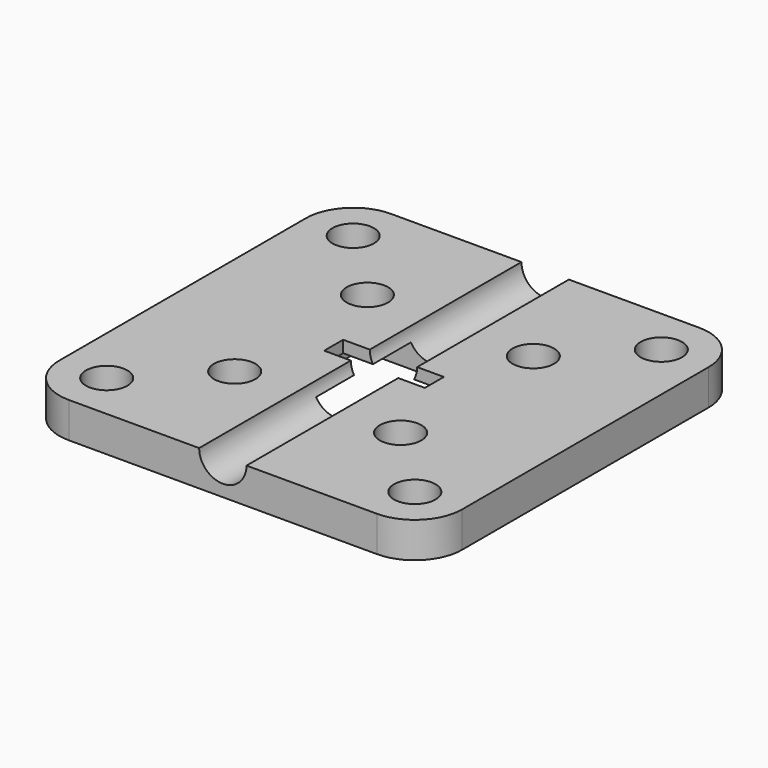
from build123d import *

# Parameters (mm, degrees)
F0_R     = 1.75
F0_W     = 12
F0_H     = 10
F1_DEPTH = 2
F2_R     = 1.75
F3_DEPTH = 1
F4_R     = 2
F5_DEPTH = 34
F6_W     = 8.5
F6_H     = 2
F7_DEPTH = 5


with BuildPart() as f1:
    # F0 (on Top) → F1 (new body)
    with BuildSketch(Plane.XY):
        with BuildLine():
            ThreePointArc((-17, -13), (-15.828427, -15.828427), (-13, -17))
            Line((-13, -17), (13, -17))
            ThreePointArc((13, -17), (15.828427, -15.828427), (17, -13))
            Line((17, -13), (17, 13))
            ThreePointArc((17, 13), (15.828427, 15.828427), (13, 17))
            Line((13, 17), (-13, 17))
            ThreePointArc((-13, 17), (-15.828427, 15.828427), (-17, 13))
            Line((-17, 13), (-17, -13))
        make_face()
        with Locations((-13, -13)):
            Circle(F0_R, mode=Mode.SUBTRACT)
        with Locations((-7, -7)):
            Circle(F0_R, mode=Mode.SUBTRACT)
        with Locations((13, -13)):
            Circle(F0_R, mode=Mode.SUBTRACT)
        with Locations((7, -7)):
            Circle(F0_R, mode=Mode.SUBTRACT)
        with Locations((-7, 7)):
            Circle(F0_R, mode=Mode.SUBTRACT)
        with Locations((-13, 13)):
            Circle(F0_R, mode=Mode.SUBTRACT)
        Rectangle(F0_W, F0_H, mode=Mode.SUBTRACT)
        with Locations((7, 7)):
            Circle(F0_R, mode=Mode.SUBTRACT)
        with Locations((13, 13)):
            Circle(F0_R, mode=Mode.SUBTRACT)
    extrude(amount=F1_DEPTH)

    # F2 (on face) → F3 (join)
    with BuildSketch(Plane.XY.offset(2)):
        with BuildLine():
            ThreePointArc((-17, -13), (-15.828427, -15.828427), (-13, -17))
            Line((-13, -17), (13, -17))
            ThreePointArc((13, -17), (15.828427, -15.828427), (17, -13))
            Line((17, -13), (17, 13))
            ThreePointArc((17, 13), (15.828427, 15.828427), (13, 17))
            Line((13, 17), (-13, 17))
            ThreePointArc((-13, 17), (-15.828427, 15.828427), (-17, 13))
            Line((-17, 13), (-17, -13))
        make_face()
        with Locations((-13, -13)):
            Circle(F2_R, mode=Mode.SUBTRACT)
        with Locations((-7, -7)):
            Circle(F2_R, mode=Mode.SUBTRACT)
        with Locations((13, -13)):
            Circle(F2_R, mode=Mode.SUBTRACT)
        with Locations((7, -7)):
            Circle(F2_R, mode=Mode.SUBTRACT)
        with Locations((-7, 7)):
            Circle(F2_R, mode=Mode.SUBTRACT)
        with Locations((-13, 13)):
            Circle(F2_R, mode=Mode.SUBTRACT)
        with Locations((7, 7)):
            Circle(F2_R, mode=Mode.SUBTRACT)
        with Locations((13, 13)):
            Circle(F2_R, mode=Mode.SUBTRACT)
    extrude(amount=F3_DEPTH)


with BuildPart() as f5:
    # F4 (on face) → F5 (new body)
    with BuildSketch(Plane.XZ.offset(17)):
        with Locations((0, 3)):
            Circle(F4_R)
    extrude(amount=-F5_DEPTH)


with BuildPart() as f7:
    # F6 (on face) → F7 (new body)
    with BuildSketch(Plane.XY.offset(3)):
        Rectangle(F6_W, F6_H)
    extrude(amount=-F7_DEPTH)


with BuildPart() as f1_1:
    add(f1.part)

    # F8: cut F5, F7
    add(f5.part, mode=Mode.SUBTRACT)
    add(f7.part, mode=Mode.SUBTRACT)


solid = f1_1.part
